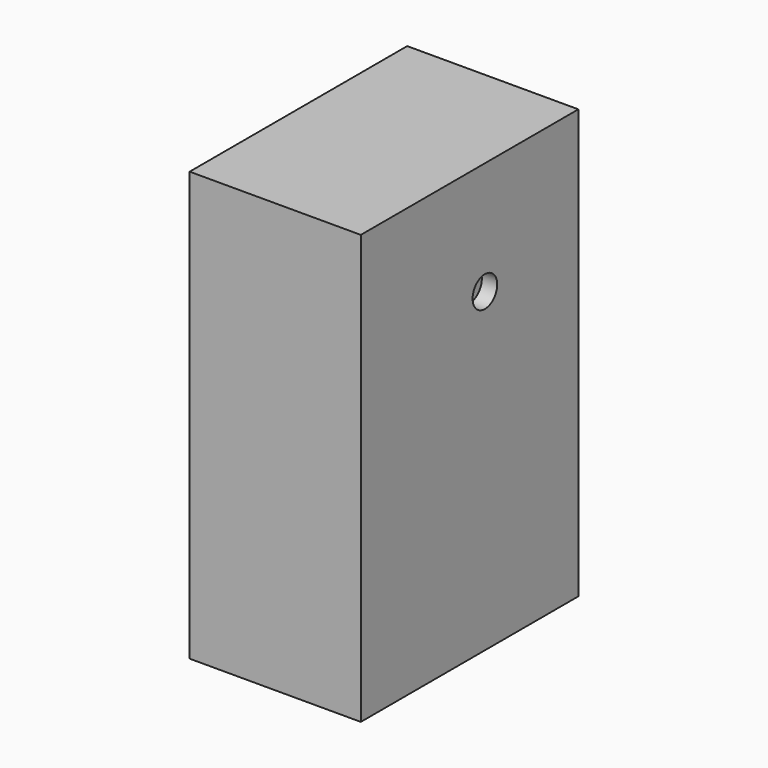
from build123d import *

# Parameters (mm, degrees)
F0_W           = 88.491708
F0_H           = 117.230378
F1_DEPTH       = 27.850658
F1_FACE_W      = 55.701316
F1_FACE_H      = 88.491708
F2_DEPTH       = 22.289542
F4_D           = 5
F4_CBORE_D     = 10
F4_CBORE_DEPTH = 5


with BuildPart() as f1:
    # F0 (on Right) → F1 (new body, symmetric)
    with BuildSketch(Plane.YZ):
        with Locations((8.974858, 36.06699)):
            Rectangle(F0_W, F0_H)
    extrude(amount=F1_DEPTH, both=True)

    # F1_face (on face) → F2 (join)
    with BuildSketch(Plane(origin=(0, 8.974858, 94.682179), x_dir=(1, 0, 0), z_dir=(0, 0, 1))):
        Rectangle(F1_FACE_W, F1_FACE_H)
    extrude(amount=F2_DEPTH)

    # F4 (through all)
    with Locations(Plane.YZ.offset(27.850658)):
        with Locations((15.204102, 80.216892)):
            CounterBoreHole(F4_D / 2, F4_CBORE_D / 2, F4_CBORE_DEPTH)


solid = f1.part
